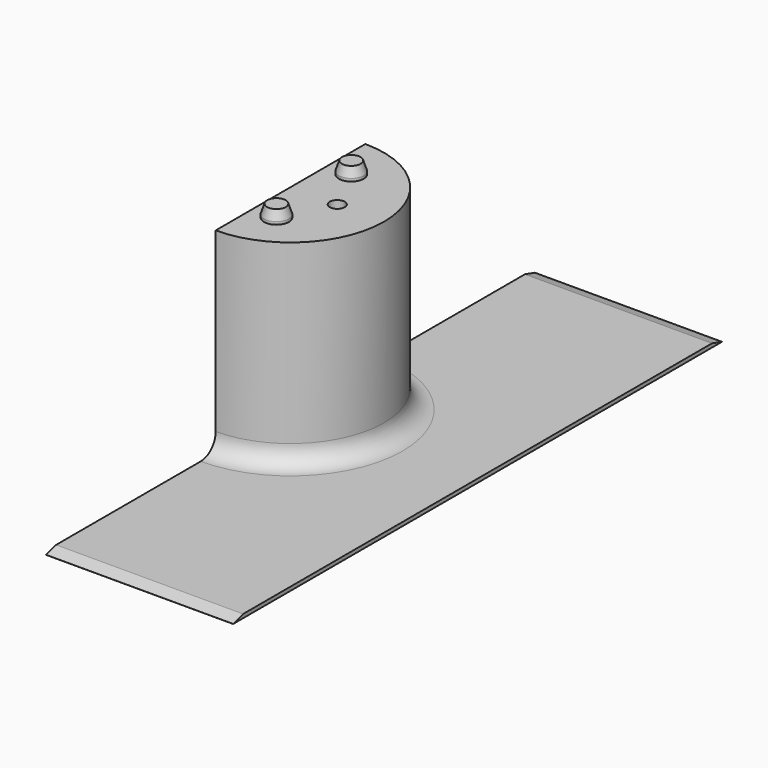
from build123d import *

# Parameters (mm, degrees)
SKETCH001_W        = 30
SKETCH001_H        = 98
PAD001_DEPTH       = 0.6
CHAMFER_1_SIZE2    = 2
CHAMFER_1_SIZE     = 0.59
CHAMFER_2_SIZE2    = 2
CHAMFER_2_SIZE     = 0.59
PAD002_DEPTH       = 32
FILLET_R           = 3
SKETCH003_R        = 1.2
HOLE_DEPTH         = 12
HOLE_TIPS_R        = 1.2
SKETCH004_R        = 1.99
PAD003_DEPTH       = 1.95
CHAMFER001_1_SIZE2 = 0.5
CHAMFER001_1_SIZE  = 1.5
CHAMFER001_2_SIZE2 = 0.5
CHAMFER001_2_SIZE  = 1.5


with BuildPart() as part:
    # Sketch001 → Pad001 (new body)
    with BuildSketch(Plane.XY):
        with Locations((15, 0)):
            Rectangle(SKETCH001_W, SKETCH001_H)
    extrude(amount=PAD001_DEPTH)

    # Chamfer 1
    chamfer_1_edges = [part.edges().sort_by_distance(p)[0] for p in [
        (15, -49, 0.6),
    ]]
    chamfer_1_side = part.faces().sort_by_distance((15, -49, 0.3))[0]
    chamfer(chamfer_1_edges, length=CHAMFER_1_SIZE, length2=CHAMFER_1_SIZE2, reference=chamfer_1_side)

    # Chamfer 2
    chamfer_2_edges = [part.edges().sort_by_distance(p)[0] for p in [
        (15, 49, 0.6),
    ]]
    chamfer_2_side = part.faces().sort_by_distance((15, 49, 0.3))[0]
    chamfer(chamfer_2_edges, length=CHAMFER_2_SIZE, length2=CHAMFER_2_SIZE2, reference=chamfer_2_side)

    # Sketch002 → Pad002 (join)
    with BuildSketch(Plane.XY):
        with BuildLine():
            Line((0, -15), (0, 15))
            ThreePointArc((0, -15), (15, 0), (0, 15))
        make_face()
    extrude(amount=PAD002_DEPTH)

    # Fillet
    fillet_edges = [part.edges().sort_by_distance(p)[0] for p in [
        (15, 0, 0.6),
    ]]
    fillet(fillet_edges, radius=FILLET_R)

    # Sketch003 (on Face9 of Fillet) → Hole (cut)
    with BuildSketch(Plane.XY.offset(32)):
        with Locations((7.5, 0)):
            Circle(SKETCH003_R)
    extrude(amount=-HOLE_DEPTH, mode=Mode.SUBTRACT)

    # Hole tips → Hole tip 1 section 0
    with BuildSketch(Plane.XY.offset(20), mode=Mode.PRIVATE) as hole_tip_1_s0:
        with Locations((7.5, 0)):
            Circle(HOLE_TIPS_R)
    loft([hole_tip_1_s0.sketch, Vertex(7.5, 0, 19.278967)], mode=Mode.SUBTRACT)

    # Sketch004 (on Face9 of Hole) → Pad003 (join)
    with BuildSketch(Plane.XY.offset(32)):
        with Locations((3.75, 7.5)):
            Circle(SKETCH004_R)
        with Locations((3.75, -7.5)):
            Circle(SKETCH004_R)
    extrude(amount=PAD003_DEPTH)

    # Chamfer001 1
    chamfer001_1_edges = [part.edges().sort_by_distance(p)[0] for p in [
        (1.76, -7.5, 33.95),
    ]]
    chamfer001_1_side = part.faces().sort_by_distance((1.76, -7.5, 32.975))[0]
    chamfer(chamfer001_1_edges, length=CHAMFER001_1_SIZE, length2=CHAMFER001_1_SIZE2, reference=chamfer001_1_side)

    # Chamfer001 2
    chamfer001_2_edges = [part.edges().sort_by_distance(p)[0] for p in [
        (1.76, 7.5, 33.95),
    ]]
    chamfer001_2_side = part.faces().sort_by_distance((1.76, 7.5, 32.975))[0]
    chamfer(chamfer001_2_edges, length=CHAMFER001_2_SIZE, length2=CHAMFER001_2_SIZE2, reference=chamfer001_2_side)


solid = part.part
